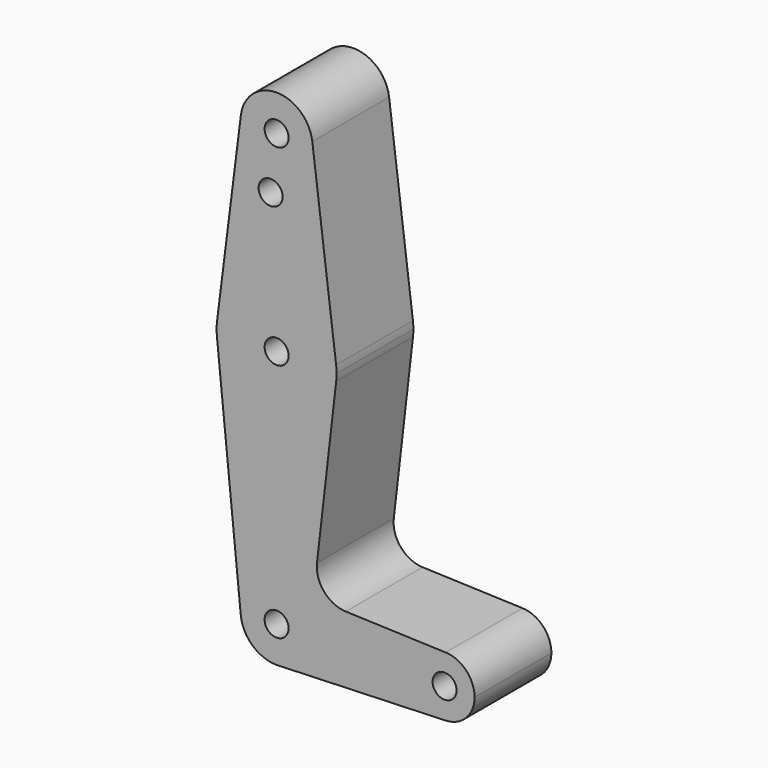
from build123d import *

# Parameters (mm, degrees)
F0_R     = 3.175
F1_DEPTH = 25.4


with BuildPart() as f1:
    # F0 (on Front) → F1 (new body)
    with BuildSketch(Plane.XZ):
        with BuildLine():
            ThreePointArc((15.769913, -1.823585), (15.848707, -0.913305), (15.875, 0))
            ThreePointArc((15.875, 0), (15.843841, 0.994139), (15.750488, 1.984375))
            ThreePointArc((15.750488, 1.984375), (0, 15.875), (-15.750488, 1.984375))
            ThreePointArc((-15.750488, 1.984375), (-15.873744, 0.199705), (-15.795426, -1.5875))
            ThreePointArc((-15.795426, -1.5875), (-0.11873, -15.874556), (15.769913, -1.823585))
        make_face()
        Circle(F0_R, mode=Mode.SUBTRACT)
        with BuildLine():
            ThreePointArc((-15.750488, 1.984375), (0, 15.875), (15.750488, 1.984375))
            Line((15.750488, 1.984375), (9.450293, 51.990625))
            ThreePointArc((9.450293, 51.990625), (9.506305, 51.396483), (9.525, 50.8))
            ThreePointArc((9.525, 50.8), (-0.596483, 41.293695), (-9.450293, 51.990625))
            Line((-9.450293, 51.990625), (-15.750488, 1.984375))
        make_face()
        with Locations((-1.5875, 36.5252)):
            Circle(F0_R, mode=Mode.SUBTRACT)
        with BuildLine():
            Line((10.688919, -45.762768), (15.769913, -1.823585))
            ThreePointArc((15.769913, -1.823585), (-0.11873, -15.874556), (-15.795426, -1.5875))
            Line((-15.795426, -1.5875), (-9.477255, -64.4525))
            ThreePointArc((-9.477255, -64.4525), (-0.476848, -53.986944), (9.525, -63.5))
            ThreePointArc((9.525, -63.5), (6.970557, -69.991299), (0.677344, -73.000886))
            Line((0.677344, -73.000886), (44.732405, -71.432475))
            ThreePointArc((44.732405, -71.432475), (36.5125, -63.5), (44.732405, -55.567525))
            Line((44.732405, -55.567525), (18.303005, -54.626608))
            ThreePointArc((18.303005, -54.626608), (12.555174, -51.861835), (10.688919, -45.762768))
        make_face()
        with BuildLine():
            ThreePointArc((9.525, 50.8), (9.506305, 51.396483), (9.450293, 51.990625))
            ThreePointArc((9.450293, 51.990625), (0, 60.325), (-9.450293, 51.990625))
            ThreePointArc((-9.450293, 51.990625), (-0.596483, 41.293695), (9.525, 50.8))
        make_face()
        with Locations((0, 50.8)):
            Circle(F0_R, mode=Mode.SUBTRACT)
        with BuildLine():
            ThreePointArc((9.525, -63.5), (-0.476848, -53.986944), (-9.477255, -64.4525))
            ThreePointArc((-9.477255, -64.4525), (-6.389564, -70.563929), (0, -73.025))
            Line((0, -73.025), (0.677344, -73.000886))
            ThreePointArc((0.677344, -73.000886), (6.970557, -69.991299), (9.525, -63.5))
        make_face()
        with Locations((0, -63.5)):
            Circle(F0_R, mode=Mode.SUBTRACT)
        with BuildLine():
            Line((0.677344, -73.000886), (0, -73.025))
            ThreePointArc((0, -73.025), (0.338886, -73.01897), (0.677344, -73.000886))
        make_face()
        with BuildLine():
            ThreePointArc((52.3875, -63.5), (50.161633, -57.98809), (44.732405, -55.567525))
            ThreePointArc((44.732405, -55.567525), (36.5125, -63.5), (44.732405, -71.432475))
            ThreePointArc((44.732405, -71.432475), (50.161633, -69.01191), (52.3875, -63.5))
        make_face()
        with Locations((44.45, -63.5)):
            Circle(F0_R, mode=Mode.SUBTRACT)
    extrude(amount=F1_DEPTH)


solid = f1.part
